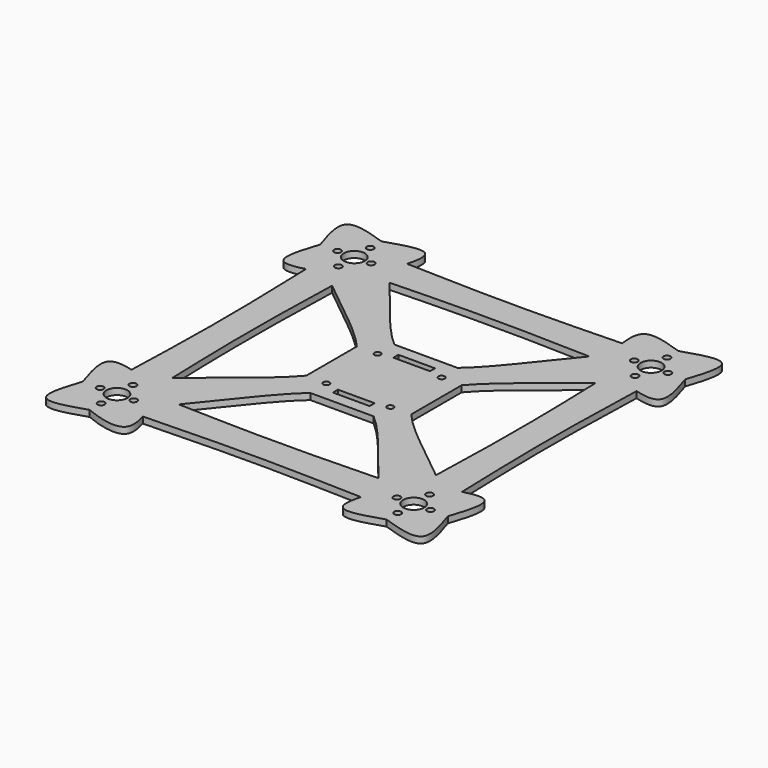
from build123d import *

# Parameters (mm, degrees)
F0_R     = 1.65
F0_R_2   = 5
F0_R_3   = 1.5
F1_DEPTH = 3


with BuildPart() as f1:
    # F0 (on Top) → F1 (new body)
    with BuildSketch(Plane.XY):
        with BuildLine():
            add(Edge.make_bspline(
                [(-78.7592622764, 51.9928209081), (-76.2198572845, 52.6719835843), (-73.4652677016, 53.5663308515), (-70.7106781187, 54.4606781187)],
                knots=[0.8282853247, 0.8282853247, 0.8282853247, 0.8282853247, 1, 1, 1, 1], degree=3))
            add(Edge.make_bspline(
                [(-78.7592622767, 51.9928209087), (-78.2233543693, 34.6618806058), (-77.198001868, 0), (-78.2233543693, -34.6618806058), (-78.7592622767, -51.9928209087)],
                knots=[0.0226572391, 0.0226572391, 0.0226572391, 0.0226572391, 0.5, 0.9773427609, 0.9773427609, 0.9773427609, 0.9773427609], degree=3))
            add(Edge.make_bspline(
                [(-78.7592622764, -51.9928209081), (-76.2198572845, -52.6719835843), (-73.4652677016, -53.5663308515), (-70.7106781187, -54.4606781187)],
                knots=[0.8282853247, 0.8282853247, 0.8282853247, 0.8282853247, 1, 1, 1, 1], degree=3))
            add(Edge.make_bspline(
                [(-62.7981746177, -47.5659444056), (-65.4706450418, -49.8079442194), (-68.1232354572, -52.1039749329), (-70.7106781187, -54.4606781187)],
                knots=[0.9452670027, 0.9452670027, 0.9452670027, 0.9452670027, 1, 1, 1, 1], degree=3))
            add(Edge.make_bspline(
                [(-62.7981746188, 47.565944372), (-63.2815878308, 31.7106295814), (-64.1397684068, -1.12e-08), (-63.2815878302, -31.7106296037), (-62.7981746177, -47.5659444056)],
                knots=[0.0633001092, 0.0633001092, 0.0633001092, 0.0633001092, 0.5, 0.9366998911, 0.9366998911, 0.9366998911, 0.9366998911], degree=3))
            add(Edge.make_bspline(
                [(-70.7106781187, 54.4606781187), (-68.1232354589, 52.1039749198), (-65.4706450436, 49.8079441952), (-62.7981746188, 47.565944372)],
                knots=[0, 0, 0, 0, 0.0547329974, 0.0547329974, 0.0547329974, 0.0547329974], degree=3))
        make_face()
        with BuildLine():
            add(Edge.make_bspline(
                [(-51.9928209087, 78.7592622767), (-34.6618806058, 78.2233543693), (-0.4791004828, 77.2121744077), (33.7036796402, 78.1954010789), (50.5555194603, 78.714881595)],
                knots=[0.0226572391, 0.0226572391, 0.0226572391, 0.0226572391, 0.5, 0.9641469883, 0.9641469883, 0.9641469883, 0.9641469883], degree=3))
            add(Edge.make_bspline(
                [(-51.9928209081, 78.7592622764), (-52.6719835843, 76.2198572845), (-53.5663308515, 73.4652677016), (-54.4606781187, 70.7106781187)],
                knots=[0.8282853247, 0.8282853247, 0.8282853247, 0.8282853247, 1, 1, 1, 1], degree=3))
            add(Edge.make_bspline(
                [(-54.4606781187, 70.7106781187), (-52.1039749371, 68.1232354569), (-49.807944227, 65.4706450414), (-47.565944416, 62.7981746174)],
                knots=[0, 0, 0, 0, 0.0547329973, 0.0547329973, 0.0547329973, 0.0547329973], degree=3))
            add(Edge.make_bspline(
                [(47.5659443951, 62.7981746181), (31.7106295967, 63.2815878304), (-7e-09, 64.1397684071), (-31.7106296107, 63.28158783), (-47.565944416, 62.7981746174)],
                knots=[0.063300109, 0.063300109, 0.063300109, 0.063300109, 0.5, 0.9366998912, 0.9366998912, 0.9366998912, 0.9366998912], degree=3))
            add(Edge.make_bspline(
                [(15.0523306415, 25), (25.0163225821, 33.4817968678), (35.5099622236, 48.4274081488), (47.5659443951, 62.7981746181)],
                knots=[0.6509493875, 0.6509493875, 0.6509493875, 0.6509493875, 0.9452670027, 0.9452670027, 0.9452670027, 0.9452670027], degree=3))
            Line((15.0523306415, 25), (25, 25))
            Line((25, 25), (25, 15.0527758488))
            add(Edge.make_bspline(
                [(25, 15.0527758488), (33.4818174282, 25.0167173612), (48.4274687009, 35.5101308551), (62.7981738064, 47.5659710157)],
                knots=[0.6509517554, 0.6509517554, 0.6509517554, 0.6509517554, 0.9452670985, 0.9452670985, 0.9452670985, 0.9452670985], degree=3))
            add(Edge.make_bspline(
                [(62.7981738064, 47.5659710157), (65.4706487727, 49.807957807), (68.1232399878, 52.1039790536), (70.7106781187, 54.4606781187)],
                knots=[0.9452670985, 0.9452670985, 0.9452670985, 0.9452670985, 1, 1, 1, 1], degree=3))
            add(Edge.make_bspline(
                [(78.7592622764, 51.9928209081), (76.2198572845, 52.6719835843), (73.4652677016, 53.5663308515), (70.7106781187, 54.4606781187)],
                knots=[0.8282853247, 0.8282853247, 0.8282853247, 0.8282853247, 1, 1, 1, 1], degree=3))
            add(Edge.make_bspline(
                [(86.9606781187, 70.7106781187), (89.5648447853, 62.6898447853), (93.8788308515, 49.4027677016), (83.6141146114, 50.694392924), (78.7592622764, 51.9928209081)],
                knots=[0, 0, 0, 0, 0.5, 0.8282853247, 0.8282853247, 0.8282853247, 0.8282853247], degree=3))
            add(Edge.make_bspline(
                [(70.7106781187, 86.9606781187), (78.731511452, 89.5648447853), (94.7731781187, 94.7731781187), (89.5648447853, 78.731511452), (86.9606781187, 70.7106781187)],
                knots=[0, 0, 0, 0, 0.5, 1, 1, 1, 1], degree=3))
            add(Edge.make_bspline(
                [(70.7106781187, 86.9606781187), (62.8947364052, 89.5756592119), (49.9556009255, 93.9047082099), (49.8913915187, 83.5853300025), (50.55551946, 78.7148815949)],
                knots=[0, 0, 0, 0, 0.5011013483, 0.8295632788, 0.8295632788, 0.8295632788, 0.8295632788], degree=3))
        make_face()
        with Locations((70.7106781187, 61.2106781187)):
            Circle(F0_R, mode=Mode.SUBTRACT)
        with Locations((62.7106781187, 70.7106781187)):
            Circle(F0_R, mode=Mode.SUBTRACT)
        with Locations((70.7106781187, 70.7106781187)):
            Circle(F0_R_2, mode=Mode.SUBTRACT)
        with Locations((78.7106781187, 70.7106781187)):
            Circle(F0_R, mode=Mode.SUBTRACT)
        with Locations((70.7106781187, 80.2106781187)):
            Circle(F0_R, mode=Mode.SUBTRACT)
        with BuildLine():
            add(Edge.make_bspline(
                [(-15.0523306612, 25), (-12.2235157611, 22.5919858759), (-9.4373911818, 20.704963931), (-6.67032574, 19.5)],
                knots=[0.3490506125, 0.3490506125, 0.3490506125, 0.3490506125, 0.4326084936, 0.4326084936, 0.4326084936, 0.4326084936], degree=3))
            Line((-15.0523306612, 25), (-25, 25))
            Line((-25, 25), (-25, 15.0523306057))
            add(Edge.make_bspline(
                [(-25, 15.0523306057), (-20.6498626855, 9.9420062531), (-15.3501373191, -7.2e-09), (-20.6498626764, -9.9420062806), (-25, -15.0523306518)],
                knots=[0.3490506127, 0.3490506127, 0.3490506127, 0.3490506127, 0.5, 0.6509493876, 0.6509493876, 0.6509493876, 0.6509493876], degree=3))
            Line((-25, -15.0523306518), (-25, -25))
            Line((-25, -25), (-15.0527757977, -25))
            add(Edge.make_bspline(
                [(-15.0527757977, -25), (-12.223983082, -22.5919867327), (-9.4378662877, -20.7049643143), (-6.670788481, -19.5)],
                knots=[0.3490482449, 0.3490482449, 0.3490482449, 0.3490482449, 0.4326052488, 0.4326052488, 0.4326052488, 0.4326052488], degree=3))
            Line((-6.670788481, -19.5), (-8.75, -19.5))
            Line((-8.75, -19.5), (-8.75, -16.5))
            Line((-8.75, -16.5), (8.75, -16.5))
            Line((8.75, -16.5), (8.75, -19.5))
            Line((8.75, -19.5), (6.6700303482, -19.5))
            add(Edge.make_bspline(
                [(6.6700303482, -19.5), (9.4371603678, -20.7049673088), (12.2233576831, -22.5919934402), (15.052232983, -25)],
                knots=[0.5673862398, 0.5673862398, 0.5673862398, 0.5673862398, 0.6509429242, 0.6509429242, 0.6509429242, 0.6509429242], degree=3))
            Line((15.052232983, -25), (25, -25))
            Line((25, -25), (25, -15.0522329629))
            add(Edge.make_bspline(
                [(25, -15.0522329629), (20.6500003205, -9.9419451123), (15.3501246714, 0.0003753973), (20.649750313, 9.9423577323), (25, 15.0527758488)],
                knots=[0.3490570764, 0.3490570764, 0.3490570764, 0.3490570764, 0.5, 0.6509517554, 0.6509517554, 0.6509517554, 0.6509517554], degree=3))
            Line((25, 15.0527758488), (25, 25))
            Line((25, 25), (15.0523306415, 25))
            add(Edge.make_bspline(
                [(6.6703257308, 19.5), (9.4373911701, 20.7049639311), (12.2235157455, 22.5919858759), (15.0523306415, 25)],
                knots=[0.5673915063, 0.5673915063, 0.5673915063, 0.5673915063, 0.6509493875, 0.6509493875, 0.6509493875, 0.6509493875], degree=3))
            Line((6.6703257308, 19.5), (8.75, 19.5))
            Line((8.75, 19.5), (8.75, 16.5))
            Line((8.75, 16.5), (-8.75, 16.5))
            Line((-8.75, 16.5), (-8.75, 19.5))
            Line((-8.75, 19.5), (-6.67032574, 19.5))
        make_face()
        with Locations((-15.25, -15.25)):
            Circle(F0_R_3, mode=Mode.SUBTRACT)
        with Locations((15.25, -15.25)):
            Circle(F0_R_3, mode=Mode.SUBTRACT)
        with Locations((-15.25, 15.25)):
            Circle(F0_R_3, mode=Mode.SUBTRACT)
        with Locations((15.25, 15.25)):
            Circle(F0_R_3, mode=Mode.SUBTRACT)
        with BuildLine():
            add(Edge.make_bspline(
                [(-51.9273251273, -78.7572371252), (-52.6364778883, -76.2236119559), (-53.5637162397, -73.473320706), (-54.4606781187, -70.7106781187)],
                knots=[0.8277833192, 0.8277833192, 0.8277833192, 0.8277833192, 1, 1, 1, 1], degree=3))
            add(Edge.make_bspline(
                [(-51.927325128, -78.7572371256), (-34.618216752, -78.2220635379), (0.0218319269, -77.1986476905), (34.6618806058, -78.2233543693), (51.9928209087, -78.7592622767)],
                knots=[0.0232585517, 0.0232585517, 0.0232585517, 0.0232585517, 0.5, 0.9773427609, 0.9773427609, 0.9773427609, 0.9773427609], degree=3))
            add(Edge.make_bspline(
                [(51.9928209081, -78.7592622764), (52.6719835843, -76.2198572845), (53.5663308515, -73.4652677016), (54.4606781187, -70.7106781187)],
                knots=[0.8282853247, 0.8282853247, 0.8282853247, 0.8282853247, 1, 1, 1, 1], degree=3))
            add(Edge.make_bspline(
                [(47.5660226155, -62.7981722332), (49.8080248696, -65.470681189), (52.104030924, -68.1232770501), (54.4606781187, -70.7106781187)],
                knots=[0.9452635867, 0.9452635867, 0.9452635867, 0.9452635867, 1, 1, 1, 1], degree=3))
            add(Edge.make_bspline(
                [(47.5660226155, -62.7981722332), (31.7106817437, -63.2815864191), (1.72043e-05, -64.1397693526), (-31.7106473351, -63.2815873503), (-47.5659710027, -62.7981738068)],
                knots=[0.0632993909, 0.0632993909, 0.0632993909, 0.0632993909, 0.5, 0.9367001353, 0.9367001353, 0.9367001353, 0.9367001353], degree=3))
            add(Edge.make_bspline(
                [(-54.4606781187, -70.7106781187), (-52.1039790489, -68.1232399877), (-49.8079577979, -65.4706487728), (-47.5659710027, -62.7981738068)],
                knots=[0, 0, 0, 0, 0.0547329015, 0.0547329015, 0.0547329015, 0.0547329015], degree=3))
        make_face()
        with BuildLine():
            add(Edge.make_bspline(
                [(86.9606781187, -70.7106781187), (89.5648447853, -62.6898447853), (93.8788308515, -49.4027677016), (83.6141146114, -50.694392924), (78.7592622764, -51.9928209081)],
                knots=[0, 0, 0, 0, 0.5, 0.8282853247, 0.8282853247, 0.8282853247, 0.8282853247], degree=3))
            add(Edge.make_bspline(
                [(78.7592622764, -51.9928209081), (76.2198572845, -52.6719835843), (73.4652677016, -53.5663308515), (70.7106781187, -54.4606781187)],
                knots=[0.8282853247, 0.8282853247, 0.8282853247, 0.8282853247, 1, 1, 1, 1], degree=3))
            add(Edge.make_bspline(
                [(70.7106781187, -54.4606781187), (68.1232770542, -52.1040309246), (65.4706811926, -49.8080248689), (62.7981722333, -47.5660226117)],
                knots=[0, 0, 0, 0, 0.0547364136, 0.0547364136, 0.0547364136, 0.0547364136], degree=3))
            add(Edge.make_bspline(
                [(62.7981722333, -47.5660226117), (48.4279467134, -35.5106549619), (33.4819795372, -25.0166835772), (25, -15.0522329629)],
                knots=[0.0547364136, 0.0547364136, 0.0547364136, 0.0547364136, 0.3490570764, 0.3490570764, 0.3490570764, 0.3490570764], degree=3))
            Line((25, -15.0522329629), (25, -25))
            Line((25, -25), (15.052232983, -25))
            add(Edge.make_bspline(
                [(15.052232983, -25), (25.0166835617, -33.4819795199), (35.5106549235, -48.4279466622), (47.5660226155, -62.7981722332)],
                knots=[0.6509429242, 0.6509429242, 0.6509429242, 0.6509429242, 0.9452635867, 0.9452635867, 0.9452635867, 0.9452635867], degree=3))
            add(Edge.make_bspline(
                [(47.5660226155, -62.7981722332), (49.8080248696, -65.470681189), (52.104030924, -68.1232770501), (54.4606781187, -70.7106781187)],
                knots=[0.9452635867, 0.9452635867, 0.9452635867, 0.9452635867, 1, 1, 1, 1], degree=3))
            add(Edge.make_bspline(
                [(51.9928209081, -78.7592622764), (52.6719835843, -76.2198572845), (53.5663308515, -73.4652677016), (54.4606781187, -70.7106781187)],
                knots=[0.8282853247, 0.8282853247, 0.8282853247, 0.8282853247, 1, 1, 1, 1], degree=3))
            add(Edge.make_bspline(
                [(70.7106781187, -86.9606781187), (62.6898447853, -89.5648447853), (49.4027677016, -93.8788308515), (50.694392924, -83.6141146114), (51.9928209081, -78.7592622764)],
                knots=[0, 0, 0, 0, 0.5, 0.8282853247, 0.8282853247, 0.8282853247, 0.8282853247], degree=3))
            add(Edge.make_bspline(
                [(70.7106781187, -86.9606781187), (78.731511452, -89.5648447853), (94.7731781187, -94.7731781187), (89.5648447853, -78.731511452), (86.9606781187, -70.7106781187)],
                knots=[0, 0, 0, 0, 0.5, 1, 1, 1, 1], degree=3))
        make_face()
        with Locations((70.7106781187, -80.2106781187)):
            Circle(F0_R, mode=Mode.SUBTRACT)
        with Locations((62.7106781187, -70.7106781187)):
            Circle(F0_R, mode=Mode.SUBTRACT)
        with Locations((70.7106781187, -70.7106781187)):
            Circle(F0_R_2, mode=Mode.SUBTRACT)
        with Locations((70.7106781187, -61.2106781187)):
            Circle(F0_R, mode=Mode.SUBTRACT)
        with Locations((78.7106781187, -70.7106781187)):
            Circle(F0_R, mode=Mode.SUBTRACT)
        with BuildLine():
            add(Edge.make_bspline(
                [(-78.7592622767, -51.9928209087), (-78.7846993307, -52.8154399787), (-78.8101887247, -53.6380590487), (-78.8356781187, -54.4606781187)],
                knots=[0.9773427609, 0.9773427609, 0.9773427609, 0.9773427609, 1, 1, 1, 1], degree=3))
            add(Edge.make_bspline(
                [(-86.9606781187, -70.7106781187), (-89.5648447853, -62.6898447853), (-93.8788308515, -49.4027677016), (-83.6141146114, -50.694392924), (-78.7592622764, -51.9928209081)],
                knots=[0, 0, 0, 0, 0.5, 0.8282853247, 0.8282853247, 0.8282853247, 0.8282853247], degree=3))
            add(Edge.make_bspline(
                [(-86.9606781187, -70.7106781187), (-89.5648447853, -78.731511452), (-94.7731781187, -94.7731781187), (-78.731511452, -89.5648447853), (-70.7106781187, -86.9606781187)],
                knots=[0, 0, 0, 0, 0.5, 1, 1, 1, 1], degree=3))
            add(Edge.make_bspline(
                [(-70.7106781187, -86.9606781187), (-63.7106781187, -89.9812954461), (-49.1641108317, -93.775570535), (-50.5775810445, -83.5795346168), (-51.9273251273, -78.7572371252)],
                knots=[0, 0, 0, 0, 0.5, 0.8277833192, 0.8277833192, 0.8277833192, 0.8277833192], degree=3))
            add(Edge.make_bspline(
                [(-51.9273251273, -78.7572371252), (-52.6364778883, -76.2236119559), (-53.5637162397, -73.473320706), (-54.4606781187, -70.7106781187)],
                knots=[0.8277833192, 0.8277833192, 0.8277833192, 0.8277833192, 1, 1, 1, 1], degree=3))
            add(Edge.make_bspline(
                [(-54.4606781187, -70.7106781187), (-52.1039790489, -68.1232399877), (-49.8079577979, -65.4706487728), (-47.5659710027, -62.7981738068)],
                knots=[0, 0, 0, 0, 0.0547329015, 0.0547329015, 0.0547329015, 0.0547329015], degree=3))
            add(Edge.make_bspline(
                [(-47.5659710027, -62.7981738068), (-35.5101308164, -48.4274686982), (-25.0167173091, -33.4818174272), (-15.0527757977, -25)],
                knots=[0.0547329015, 0.0547329015, 0.0547329015, 0.0547329015, 0.3490482449, 0.3490482449, 0.3490482449, 0.3490482449], degree=3))
            Line((-15.0527757977, -25), (-25, -25))
            Line((-25, -25), (-25, -15.0523306518))
            add(Edge.make_bspline(
                [(-25, -15.0523306518), (-33.4817968675, -25.016322595), (-48.4274081479, -35.5099622476), (-62.7981746177, -47.5659444056)],
                knots=[0.6509493876, 0.6509493876, 0.6509493876, 0.6509493876, 0.9452670027, 0.9452670027, 0.9452670027, 0.9452670027], degree=3))
            add(Edge.make_bspline(
                [(-62.7981746177, -47.5659444056), (-62.7281033637, -49.8641889766), (-62.6568907412, -52.1624335476), (-62.5856781187, -54.4606781187)],
                knots=[0.9366998911, 0.9366998911, 0.9366998911, 0.9366998911, 1, 1, 1, 1], degree=3))
            Line((-62.5856781187, -54.4606781187), (-70.7106781187, -54.4606781187))
            Line((-70.7106781187, -54.4606781187), (-78.8356781187, -54.4606781187))
        make_face()
        with Locations((-70.6358571163, -80.2103834729)):
            Circle(F0_R, mode=Mode.SUBTRACT)
        with Locations((-78.7106781187, -70.7106781187)):
            Circle(F0_R, mode=Mode.SUBTRACT)
        with Locations((-70.7106781187, -70.7106781187)):
            Circle(F0_R_2, mode=Mode.SUBTRACT)
        with Locations((-62.7106781187, -70.7106781187)):
            Circle(F0_R, mode=Mode.SUBTRACT)
        with Locations((-70.7106781187, -61.2106781187)):
            Circle(F0_R, mode=Mode.SUBTRACT)
        with BuildLine():
            add(Edge.make_bspline(
                [(78.7592622767, 51.9928209087), (78.2233543693, 34.6618806058), (77.198001868, 0), (78.2233543693, -34.6618806058), (78.7592622767, -51.9928209087)],
                knots=[0.0226572391, 0.0226572391, 0.0226572391, 0.0226572391, 0.5, 0.9773427609, 0.9773427609, 0.9773427609, 0.9773427609], degree=3))
            add(Edge.make_bspline(
                [(78.7592622764, 51.9928209081), (76.2198572845, 52.6719835843), (73.4652677016, 53.5663308515), (70.7106781187, 54.4606781187)],
                knots=[0.8282853247, 0.8282853247, 0.8282853247, 0.8282853247, 1, 1, 1, 1], degree=3))
            add(Edge.make_bspline(
                [(62.7981738064, 47.5659710157), (65.4706487727, 49.807957807), (68.1232399878, 52.1039790536), (70.7106781187, 54.4606781187)],
                knots=[0.9452670985, 0.9452670985, 0.9452670985, 0.9452670985, 1, 1, 1, 1], degree=3))
            add(Edge.make_bspline(
                [(62.7981722333, -47.5660226117), (63.2815864192, -31.7106817412), (64.1397693527, -1.71987e-05), (63.2815873501, 31.7106473438), (62.7981738064, 47.5659710157)],
                knots=[0.0632993909, 0.0632993909, 0.0632993909, 0.0632993909, 0.5, 0.9367001354, 0.9367001354, 0.9367001354, 0.9367001354], degree=3))
            add(Edge.make_bspline(
                [(70.7106781187, -54.4606781187), (68.1232770542, -52.1040309246), (65.4706811926, -49.8080248689), (62.7981722333, -47.5660226117)],
                knots=[0, 0, 0, 0, 0.0547364136, 0.0547364136, 0.0547364136, 0.0547364136], degree=3))
            add(Edge.make_bspline(
                [(78.7592622764, -51.9928209081), (76.2198572845, -52.6719835843), (73.4652677016, -53.5663308515), (70.7106781187, -54.4606781187)],
                knots=[0.8282853247, 0.8282853247, 0.8282853247, 0.8282853247, 1, 1, 1, 1], degree=3))
        make_face()
        with BuildLine():
            add(Edge.make_bspline(
                [(-70.7106781187, 86.9606781187), (-62.6898447853, 89.5648447853), (-49.4027677016, 93.8788308515), (-50.694392924, 83.6141146114), (-51.9928209081, 78.7592622764)],
                knots=[0, 0, 0, 0, 0.5, 0.8282853247, 0.8282853247, 0.8282853247, 0.8282853247], degree=3))
            add(Edge.make_bspline(
                [(-70.7106781187, 86.9606781187), (-78.731511452, 89.5648447853), (-94.7731781187, 94.7731781187), (-89.5648447853, 78.731511452), (-86.9606781187, 70.7106781187)],
                knots=[0, 0, 0, 0, 0.5, 1, 1, 1, 1], degree=3))
            add(Edge.make_bspline(
                [(-86.9606781187, 70.7106781187), (-89.5648447853, 62.6898447853), (-93.8788308515, 49.4027677016), (-83.6141146114, 50.694392924), (-78.7592622764, 51.9928209081)],
                knots=[0, 0, 0, 0, 0.5, 0.8282853247, 0.8282853247, 0.8282853247, 0.8282853247], degree=3))
            add(Edge.make_bspline(
                [(-78.7592622764, 51.9928209081), (-76.2198572845, 52.6719835843), (-73.4652677016, 53.5663308515), (-70.7106781187, 54.4606781187)],
                knots=[0.8282853247, 0.8282853247, 0.8282853247, 0.8282853247, 1, 1, 1, 1], degree=3))
            Line((-70.7106781187, 54.4606781187), (-62.5856781187, 54.4606781187))
            add(Edge.make_bspline(
                [(-62.5856781187, 54.4606781187), (-62.6568907415, 52.1624335364), (-62.7281033644, 49.8641889542), (-62.7981746188, 47.565944372)],
                knots=[0, 0, 0, 0, 0.0633001092, 0.0633001092, 0.0633001092, 0.0633001092], degree=3))
            add(Edge.make_bspline(
                [(-62.7981746188, 47.565944372), (-48.4274081658, 35.5099621816), (-33.4817968736, 25.0163225403), (-25, 15.0523306057)],
                knots=[0.0547329974, 0.0547329974, 0.0547329974, 0.0547329974, 0.3490506127, 0.3490506127, 0.3490506127, 0.3490506127], degree=3))
            Line((-25, 15.0523306057), (-25, 25))
            Line((-25, 25), (-15.0523306612, 25))
            add(Edge.make_bspline(
                [(-47.565944416, 62.7981746174), (-35.509962271, 48.427408145), (-25.0163226145, 33.4817968666), (-15.0523306612, 25)],
                knots=[0.0547329973, 0.0547329973, 0.0547329973, 0.0547329973, 0.3490506125, 0.3490506125, 0.3490506125, 0.3490506125], degree=3))
            add(Edge.make_bspline(
                [(-54.4606781187, 70.7106781187), (-52.1039749371, 68.1232354569), (-49.807944227, 65.4706450414), (-47.565944416, 62.7981746174)],
                knots=[0, 0, 0, 0, 0.0547329973, 0.0547329973, 0.0547329973, 0.0547329973], degree=3))
            add(Edge.make_bspline(
                [(-51.9928209081, 78.7592622764), (-52.6719835843, 76.2198572845), (-53.5663308515, 73.4652677016), (-54.4606781187, 70.7106781187)],
                knots=[0.8282853247, 0.8282853247, 0.8282853247, 0.8282853247, 1, 1, 1, 1], degree=3))
        make_face()
        with Locations((-78.7106781187, 70.7106781187)):
            Circle(F0_R, mode=Mode.SUBTRACT)
        with Locations((-70.7106781187, 61.2106781187)):
            Circle(F0_R, mode=Mode.SUBTRACT)
        with Locations((-70.7106781187, 70.7106781187)):
            Circle(F0_R_2, mode=Mode.SUBTRACT)
        with Locations((-62.7106781187, 70.7106781187)):
            Circle(F0_R, mode=Mode.SUBTRACT)
        with Locations((-70.7106781187, 80.2106781187)):
            Circle(F0_R, mode=Mode.SUBTRACT)
        with BuildLine():
            add(Edge.make_bspline(
                [(-78.7592622764, -51.9928209081), (-76.2198572845, -52.6719835843), (-73.4652677016, -53.5663308515), (-70.7106781187, -54.4606781187)],
                knots=[0.8282853247, 0.8282853247, 0.8282853247, 0.8282853247, 1, 1, 1, 1], degree=3))
            add(Edge.make_bspline(
                [(-78.7592622767, -51.9928209087), (-78.7846993307, -52.8154399787), (-78.8101887247, -53.6380590487), (-78.8356781187, -54.4606781187)],
                knots=[0.9773427609, 0.9773427609, 0.9773427609, 0.9773427609, 1, 1, 1, 1], degree=3))
            Line((-78.8356781187, -54.4606781187), (-70.7106781187, -54.4606781187))
        make_face()
        with BuildLine():
            add(Edge.make_bspline(
                [(-62.7981746177, -47.5659444056), (-65.4706450418, -49.8079442194), (-68.1232354572, -52.1039749329), (-70.7106781187, -54.4606781187)],
                knots=[0.9452670027, 0.9452670027, 0.9452670027, 0.9452670027, 1, 1, 1, 1], degree=3))
            Line((-70.7106781187, -54.4606781187), (-62.5856781187, -54.4606781187))
            add(Edge.make_bspline(
                [(-62.7981746177, -47.5659444056), (-62.7281033637, -49.8641889766), (-62.6568907412, -52.1624335476), (-62.5856781187, -54.4606781187)],
                knots=[0.9366998911, 0.9366998911, 0.9366998911, 0.9366998911, 1, 1, 1, 1], degree=3))
        make_face()
        with BuildLine():
            Line((-62.5856781187, 54.4606781187), (-70.7106781187, 54.4606781187))
            add(Edge.make_bspline(
                [(-70.7106781187, 54.4606781187), (-68.1232354589, 52.1039749198), (-65.4706450436, 49.8079441952), (-62.7981746188, 47.565944372)],
                knots=[0, 0, 0, 0, 0.0547329974, 0.0547329974, 0.0547329974, 0.0547329974], degree=3))
            add(Edge.make_bspline(
                [(-62.5856781187, 54.4606781187), (-62.6568907415, 52.1624335364), (-62.7281033644, 49.8641889542), (-62.7981746188, 47.565944372)],
                knots=[0, 0, 0, 0, 0.0633001092, 0.0633001092, 0.0633001092, 0.0633001092], degree=3))
        make_face()
        with BuildLine():
            Line((25, -15.0522329629), (25, 15.0527758488))
            add(Edge.make_bspline(
                [(25, -15.0522329629), (20.6500003205, -9.9419451123), (15.3501246714, 0.0003753973), (20.649750313, 9.9423577323), (25, 15.0527758488)],
                knots=[0.3490570764, 0.3490570764, 0.3490570764, 0.3490570764, 0.5, 0.6509517554, 0.6509517554, 0.6509517554, 0.6509517554], degree=3))
        make_face()
        with BuildLine():
            add(Edge.make_bspline(
                [(-15.0527757977, -25), (-12.223983082, -22.5919867327), (-9.4378662877, -20.7049643143), (-6.670788481, -19.5)],
                knots=[0.3490482449, 0.3490482449, 0.3490482449, 0.3490482449, 0.4326052488, 0.4326052488, 0.4326052488, 0.4326052488], degree=3))
            Line((-15.0527757977, -25), (15.052232983, -25))
            add(Edge.make_bspline(
                [(6.6700303482, -19.5), (9.4371603678, -20.7049673088), (12.2233576831, -22.5919934402), (15.052232983, -25)],
                knots=[0.5673862398, 0.5673862398, 0.5673862398, 0.5673862398, 0.6509429242, 0.6509429242, 0.6509429242, 0.6509429242], degree=3))
            Line((6.6700303482, -19.5), (-6.670788481, -19.5))
        make_face()
        with BuildLine():
            add(Edge.make_bspline(
                [(-25, 15.0523306057), (-20.6498626855, 9.9420062531), (-15.3501373191, -7.2e-09), (-20.6498626764, -9.9420062806), (-25, -15.0523306518)],
                knots=[0.3490506127, 0.3490506127, 0.3490506127, 0.3490506127, 0.5, 0.6509493876, 0.6509493876, 0.6509493876, 0.6509493876], degree=3))
            Line((-25, 15.0523306057), (-25, -15.0523306518))
        make_face()
        with BuildLine():
            Line((15.0523306415, 25), (-15.0523306612, 25))
            add(Edge.make_bspline(
                [(-15.0523306612, 25), (-12.2235157611, 22.5919858759), (-9.4373911818, 20.704963931), (-6.67032574, 19.5)],
                knots=[0.3490506125, 0.3490506125, 0.3490506125, 0.3490506125, 0.4326084936, 0.4326084936, 0.4326084936, 0.4326084936], degree=3))
            Line((-6.67032574, 19.5), (6.6703257308, 19.5))
            add(Edge.make_bspline(
                [(6.6703257308, 19.5), (9.4373911701, 20.7049639311), (12.2235157455, 22.5919858759), (15.0523306415, 25)],
                knots=[0.5673915063, 0.5673915063, 0.5673915063, 0.5673915063, 0.6509493875, 0.6509493875, 0.6509493875, 0.6509493875], degree=3))
        make_face()
    extrude(amount=F1_DEPTH)


solid = f1.part
